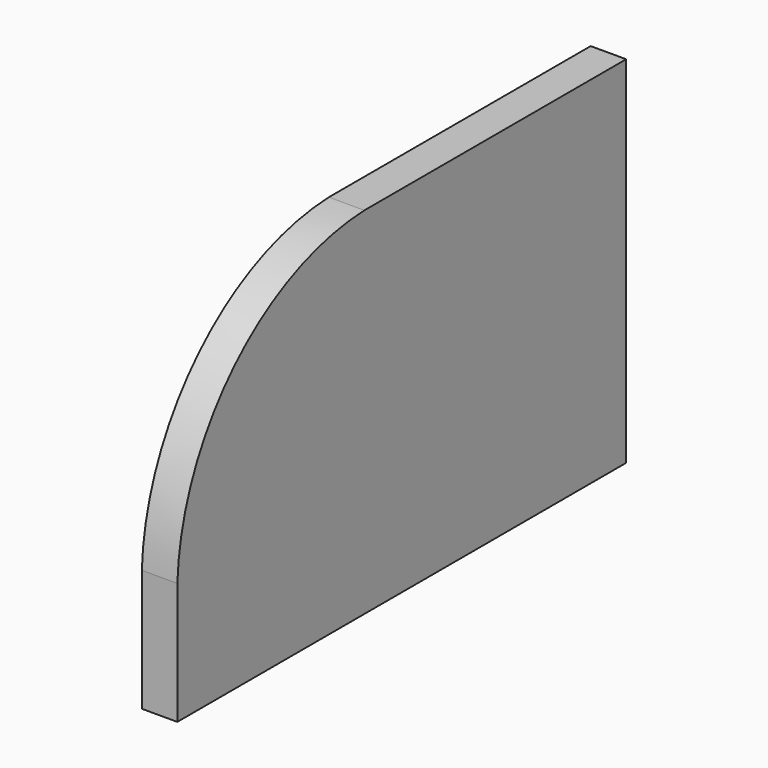
from build123d import *

# Parameters (mm, degrees)
F1_DEPTH = 19
F3_DEPTH = 7.5


with BuildPart() as f1:
    # F0 (on Right) → F1 (new body)
    with BuildSketch(Plane.YZ):
        with BuildLine():
            Line((150, 95), (-25, 95))
            ThreePointArc((-25, 95), (-111.955644, 57.084235), (-150, -29.815225))
            Line((-150, -29.815225), (-150, -40))
            Line((-150, -40), (-150, -95))
            Line((-150, -95), (150, -95))
            Line((150, -95), (150, 95))
        make_face()
    extrude(amount=F1_DEPTH)

    # F2 (on face) → F3 (cut)
    with BuildSketch(Plane(origin=(0, 0, 0), x_dir=(0, -1, 0), z_dir=(-1, 0, 0))):
        with BuildLine():
            Line((25, 84), (-150, 84))
            Line((-150, 84), (-150, 76))
            Line((-150, 76), (25, 76))
            ThreePointArc((25, 76), (94.770081, 39.891752), (131, -29.815225))
            Line((131, -29.815225), (131, -95))
            Line((131, -95), (139, -95))
            Line((139, -95), (139, -29.815225))
            ThreePointArc((139, -29.815225), (101.75341, 46.877867), (25, 84))
        make_face()
    extrude(amount=-F3_DEPTH, mode=Mode.SUBTRACT)


solid = f1.part
